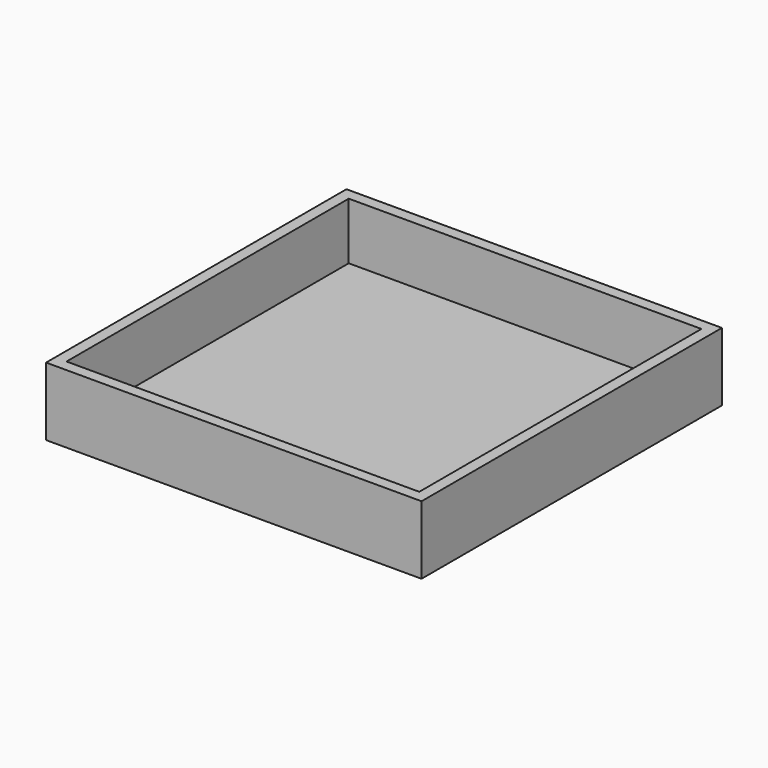
from build123d import *

# Parameters (mm, degrees)
BOX024_W     = 62
BOX024_H     = 62
BOX024_DEPTH = 10
BOX023_W     = 66
BOX023_H     = 66
BOX023_DEPTH = 12


with BuildPart() as cube024:
    # Box024 → Box024 (new body)
    with BuildSketch(Plane(origin=(2, 2, 2), x_dir=(1, 0, 0), z_dir=(0, 0, 1))):
        with Locations((31, 31)):
            Rectangle(BOX024_W, BOX024_H)
    extrude(amount=BOX024_DEPTH)


with BuildPart() as cut016006:
    # Box023 → Box023 (new body)
    with BuildSketch(Plane.XY):
        with Locations((33, 33)):
            Rectangle(BOX023_W, BOX023_H)
    extrude(amount=BOX023_DEPTH)

    # Cut016006: cut Cube024
    add(cube024.part, mode=Mode.SUBTRACT)


solid = cut016006.part
